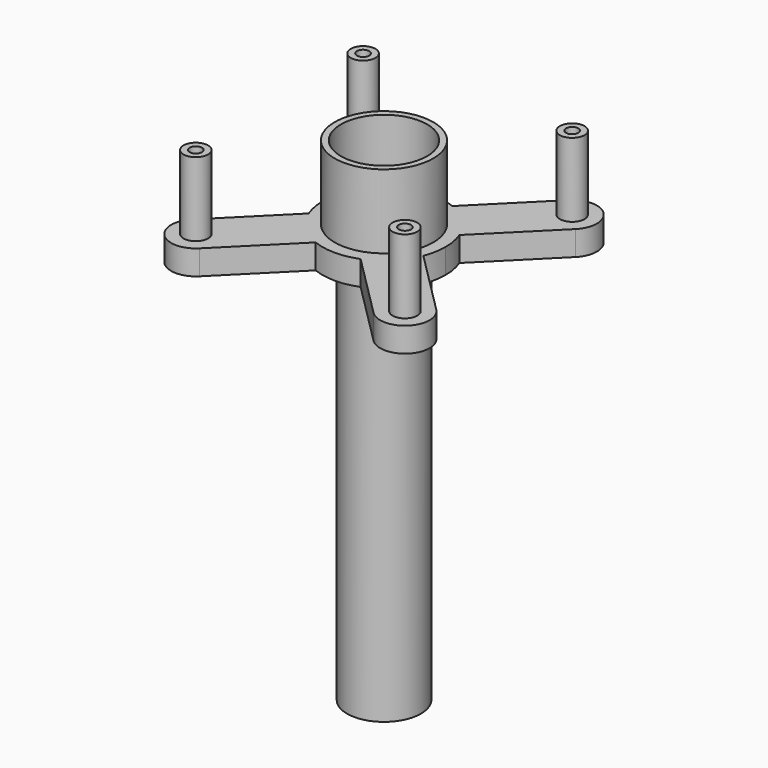
from build123d import *

# Parameters (mm, degrees)
F0_R     = 9.525
F1_DEPTH = 50.8
F2_R     = 9.525
F2_R_2   = 3.175
F3_DEPTH = 6.35
F4_DEPTH = 25.4
F6_DEPTH = 101.6
F5_R     = 12.7
F5_R_2   = 11.1125
F7_DEPTH = 19.05
F8_R     = 1.5875
F9_DEPTH = 19.05


with BuildPart() as f1:
    # F0 (on Top) → F1 (new body, symmetric)
    with BuildSketch(Plane.XY):
        Circle(F0_R)
    extrude(amount=F1_DEPTH, both=True)

    # F2 (on face) → F3 (join)
    with BuildSketch(Plane.XY.offset(50.8)):
        with BuildLine():
            ThreePointArc((14.7783039193, -5.7980477982), (15.5984165818, -2.9504279589), (15.875, 0))
            ThreePointArc((15.875, 0), (15.5984165818, 2.9504279589), (14.7783039193, 5.7980477982))
            ThreePointArc((14.7783039193, 5.7980477982), (11.2253201513, 11.2253201513), (5.7980477982, 14.7783039193))
            ThreePointArc((5.7980477982, 14.7783039193), (0, 15.875), (-5.7980477982, 14.7783039193))
            ThreePointArc((-5.7980477982, 14.7783039193), (-11.2253201513, 11.2253201513), (-14.7783039193, 5.7980477982))
            ThreePointArc((-14.7783039193, 5.7980477982), (-15.875, 0), (-14.7783039193, -5.7980477982))
            ThreePointArc((-14.7783039193, -5.7980477982), (-11.2253201513, -11.2253201513), (-5.7980477982, -14.7783039193))
            ThreePointArc((-5.7980477982, -14.7783039193), (0, -15.875), (5.7980477982, -14.7783039193))
            ThreePointArc((5.7980477982, -14.7783039193), (11.2253201513, -11.2253201513), (14.7783039193, -5.7980477982))
        make_face()
        Circle(F2_R, mode=Mode.SUBTRACT)
        with BuildLine():
            ThreePointArc((5.7980477982, 14.7783039193), (11.2253201513, 11.2253201513), (14.7783039193, 5.7980477982))
            Line((14.7783039193, 5.7980477982), (31.4308964237, 22.4506403027))
            ThreePointArc((31.4308964237, 22.4506403027), (31.4308964237, 31.4308964237), (22.4506403027, 31.4308964237))
            Line((22.4506403027, 31.4308964237), (5.7980477982, 14.7783039193))
        make_face()
        with Locations((26.9407683632, 26.9407683632)):
            Circle(F2_R_2, mode=Mode.SUBTRACT)
        with BuildLine():
            Line((-22.4506403027, -31.4308964237), (-5.7980477982, -14.7783039193))
            ThreePointArc((-5.7980477982, -14.7783039193), (-11.2253201513, -11.2253201513), (-14.7783039193, -5.7980477982))
            Line((-14.7783039193, -5.7980477982), (-31.4308964237, -22.4506403027))
            ThreePointArc((-31.4308964237, -22.4506403027), (-31.4308964237, -31.4308964237), (-22.4506403027, -31.4308964237))
        make_face()
        with Locations((-26.9407683632, -26.9407683632)):
            Circle(F2_R_2, mode=Mode.SUBTRACT)
        with BuildLine():
            Line((31.4308964237, -22.4506403027), (14.7783039193, -5.7980477982))
            ThreePointArc((14.7783039193, -5.7980477982), (11.2253201513, -11.2253201513), (5.7980477982, -14.7783039193))
            Line((5.7980477982, -14.7783039193), (22.4506403027, -31.4308964237))
            ThreePointArc((22.4506403027, -31.4308964237), (31.4308964237, -31.4308964237), (31.4308964237, -22.4506403027))
        make_face()
        with Locations((26.9407683632, -26.9407683632)):
            Circle(F2_R_2, mode=Mode.SUBTRACT)
        with BuildLine():
            ThreePointArc((-14.7783039193, 5.7980477982), (-11.2253201513, 11.2253201513), (-5.7980477982, 14.7783039193))
            Line((-5.7980477982, 14.7783039193), (-22.4506403027, 31.4308964237))
            ThreePointArc((-22.4506403027, 31.4308964237), (-31.4308964237, 31.4308964237), (-31.4308964237, 22.4506403027))
            Line((-31.4308964237, 22.4506403027), (-14.7783039193, 5.7980477982))
        make_face()
        with Locations((-26.9407683632, 26.9407683632)):
            Circle(F2_R_2, mode=Mode.SUBTRACT)
        Circle(F2_R)
    extrude(amount=F3_DEPTH)

    # F2 (on face) → F4 (join)
    with BuildSketch(Plane.XY.offset(50.8)):
        with Locations((-26.9407683632, 26.9407683632)):
            Circle(F2_R_2)
        with Locations((26.9407683632, 26.9407683632)):
            Circle(F2_R_2)
        with Locations((26.9407683632, -26.9407683632)):
            Circle(F2_R_2)
        with Locations((-26.9407683632, -26.9407683632)):
            Circle(F2_R_2)
    extrude(amount=F4_DEPTH)

    # F5 (on face) → F6 (cut)
    with BuildSketch(Plane.XY.offset(57.15)):
        Polygon((-5.6006181585, 2.2830683253), (-7.62, 0), (-5.6006181585, -2.2830683253), (-5.6006181585, -5.6006181585), (-2.2830683253, -5.6006181585), (0, -7.62), (2.2830683253, -5.6006181585), (5.6006181585, -5.6006181585), (5.6006181585, -2.2830683253), (7.62, 0), (5.6006181585, 2.2830683253), (5.6006181585, 5.6006181585), (2.2830683253, 5.6006181585), (0, 7.62), (-2.2830683253, 5.6006181585), (-5.6006181585, 5.6006181585), align=None)
    extrude(amount=-F6_DEPTH, mode=Mode.SUBTRACT)

    # F5 (on face) → F7 (join)
    with BuildSketch(Plane.XY.offset(57.15)):
        Circle(F5_R)
        Circle(F5_R_2, mode=Mode.SUBTRACT)
    extrude(amount=F7_DEPTH)

    # F8 (on face) → F9 (cut)
    with BuildSketch(Plane.XY.offset(76.2)):
        with Locations((26.9407683632, -26.9407683632)):
            Circle(F8_R)
        with Locations((-26.9407683632, -26.9407683632)):
            Circle(F8_R)
        with Locations((26.9407683632, 26.9407683632)):
            Circle(F8_R)
        with Locations((-26.9407683632, 26.9407683632)):
            Circle(F8_R)
    extrude(amount=-F9_DEPTH, mode=Mode.SUBTRACT)


solid = f1.part
